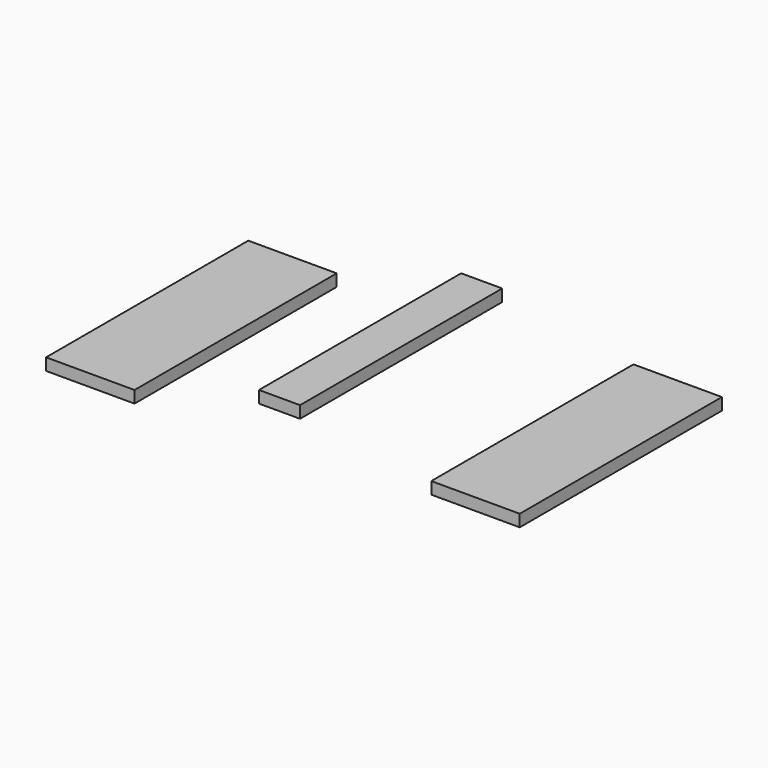
from build123d import *

# Parameters (mm, degrees)
F0_W     = 140
F0_H     = 400
F1_DEPTH = 19
F2_W     = 140
F2_H     = 400
F3_DEPTH = 19
F4_W     = 65
F4_H     = 400
F5_DEPTH = 19


with BuildPart() as f1:
    # F0 (on Top) → F1 (new body)
    with BuildSketch(Plane.XY):
        with Locations((-75.443525, 4.240409)):
            Rectangle(F0_W, F0_H)
    extrude(amount=F1_DEPTH)


with BuildPart() as f3:
    # F2 (on Top) → F3 (new body)
    with BuildSketch(Plane.XY):
        with Locations((503.172904, 43.029861)):
            Rectangle(F2_W, F2_H)
    extrude(amount=F3_DEPTH)


with BuildPart() as f5:
    # F4 (on Top) → F5 (new body)
    with BuildSketch(Plane.XY):
        with Locations((147.098945, 100.355213)):
            Rectangle(F4_W, F4_H)
    extrude(amount=F5_DEPTH)


solid = Compound([f1.part, f3.part, f5.part])
